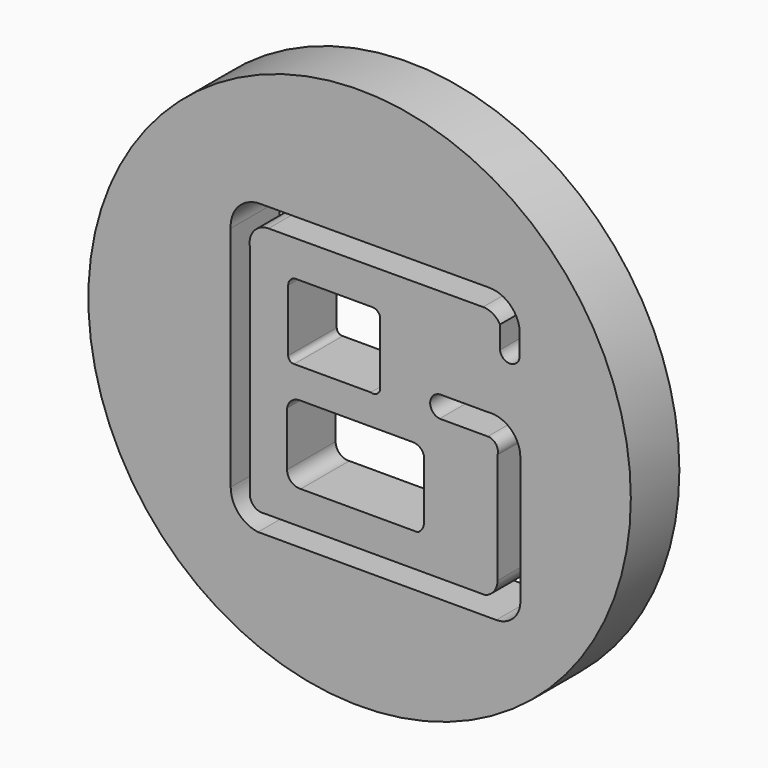
from build123d import *

# Parameters (mm, degrees)
F0_R     = 56.7749208615
F1_DEPTH = 6.35


with BuildPart() as f1:
    # F0 (on Front) → F1 (new body, symmetric)
    with BuildSketch(Plane.XZ):
        Circle(F0_R)
        with BuildLine():
            ThreePointArc((-15.1757998392, -6.796605885), (-14.2867924938, -5.1583277163), (-12.540939264, -4.5054219663))
            Line((-12.540939264, -4.5054219663), (11.172815226, -4.5054219663))
            ThreePointArc((11.172815226, -4.5054219663), (12.6048051752, -4.9827519494), (13.4639991447, -6.2238099054))
            Line((13.4639991447, -6.2238099054), (13.4639991447, -18.5962039977))
            ThreePointArc((13.4639991447, -18.5962039977), (13.1262341985, -19.8537484367), (12.2038479894, -20.7728277892))
            Line((12.2038479894, -20.7728277892), (-12.3118190095, -20.7728277892))
            ThreePointArc((-12.3118190095, -20.7728277892), (-14.3219284276, -20.0837881489), (-15.1757998392, -18.137967214))
            Line((-15.1757998392, -18.137967214), (-15.1757998392, -6.796605885))
        make_face(mode=Mode.SUBTRACT)
        with BuildLine():
            ThreePointArc((-26.9774459302, 22.4778559059), (-25.3231637656, 27.0702963223), (-20.846888423, 29.0171187371))
            Line((-20.846888423, 29.0171187371), (27.1076932549, 29.1533526033))
            ThreePointArc((27.1076932549, 29.1533526033), (31.4395738124, 27.4859162931), (33.5118584335, 23.3324635774))
            Line((33.5118584335, 23.3324635774), (33.5118584335, 18.6355356127))
            ThreePointArc((33.5118584335, 18.6355356127), (31.5581643555, 16.5702903376), (29.3877273798, 18.4064172208))
            Line((29.3877273798, 18.4064172208), (29.3877273798, 23.1033451855))
            ThreePointArc((29.3877273798, 23.1033451855), (27.891258451, 24.6152204275), (25.8363913745, 25.1654088497))
            Line((25.8363913745, 25.1654088497), (-19.0691473496, 25.0378369902))
            ThreePointArc((-19.0691473496, 25.0378369902), (-22.1115296322, 23.6060461889), (-22.9658242315, 20.3539244831))
            Line((-22.9658242315, 20.3539244831), (-22.9658242315, -25.2042561769))
            ThreePointArc((-22.9658242315, -25.2042561769), (-22.0639620759, -27.1669281843), (-19.9872851372, -27.7609396726))
            Line((-19.9872851372, -27.7609396726), (26.2946281582, -27.7609396726))
            ThreePointArc((26.2946281582, -27.7609396726), (28.1630497562, -26.4300651934), (28.878742829, -24.2506135255))
            Line((28.878742829, -24.2506135255), (28.878742829, -1.0907310061))
            ThreePointArc((28.878742829, -1.0907310061), (28.5381563008, 0.7824948989), (26.8352236599, 1.6339612193))
            Line((26.8352236599, 1.6339612193), (16.7538616806, 1.6339612193))
            ThreePointArc((16.7538616806, 1.6339612193), (14.7743355944, 4.0100604569), (17.0263312757, 6.1297034845))
            Line((17.0263312757, 6.1297034845), (26.8352236599, 6.1297034845))
            ThreePointArc((26.8352236599, 6.1297034845), (31.6061847151, 4.5818367688), (33.6469523609, 0))
            Line((33.6469523609, 0), (33.6469523609, -26.2941326946))
            ThreePointArc((33.6469523609, -26.2941326946), (32.268172843, -30.0337265714), (28.6062732339, -31.6072851419))
            Line((28.6062732339, -31.6072851419), (-21.2555918843, -31.6072851419))
            ThreePointArc((-21.2555918843, -31.6072851419), (-25.3385624939, -29.4978092991), (-26.9774459302, -25.2042561769))
            Line((-26.9774459302, -25.2042561769), (-26.9774459302, 22.4778559059))
        make_face(mode=Mode.SUBTRACT)
        with BuildLine():
            Line((-14.9466795847, 2.9409257695), (-14.9466795847, 15.8861149102))
            ThreePointArc((-14.9466795847, 15.8861149102), (-14.5607137219, 16.9864201291), (-13.5719701648, 17.6045037806))
            Line((-13.5719701648, 17.6045037806), (2.6954344939, 17.6045037806))
            ThreePointArc((2.6954344939, 17.6045037806), (3.7516186116, 17.2137954016), (4.2992630042, 16.2297915667))
            Line((4.2992630042, 16.2297915667), (4.2992630042, 3.1700441614))
            ThreePointArc((4.2992630042, 3.1700441614), (3.6816672327, 1.9781331281), (2.351757139, 1.7953338102))
            Line((2.351757139, 1.7953338102), (-13.6865293607, 1.7953338102))
            ThreePointArc((-13.6865293607, 1.7953338102), (-14.569992039, 2.0894036729), (-14.9466795847, 2.9409257695))
        make_face(mode=Mode.SUBTRACT)
    extrude(amount=F1_DEPTH, both=True)


solid = f1.part
